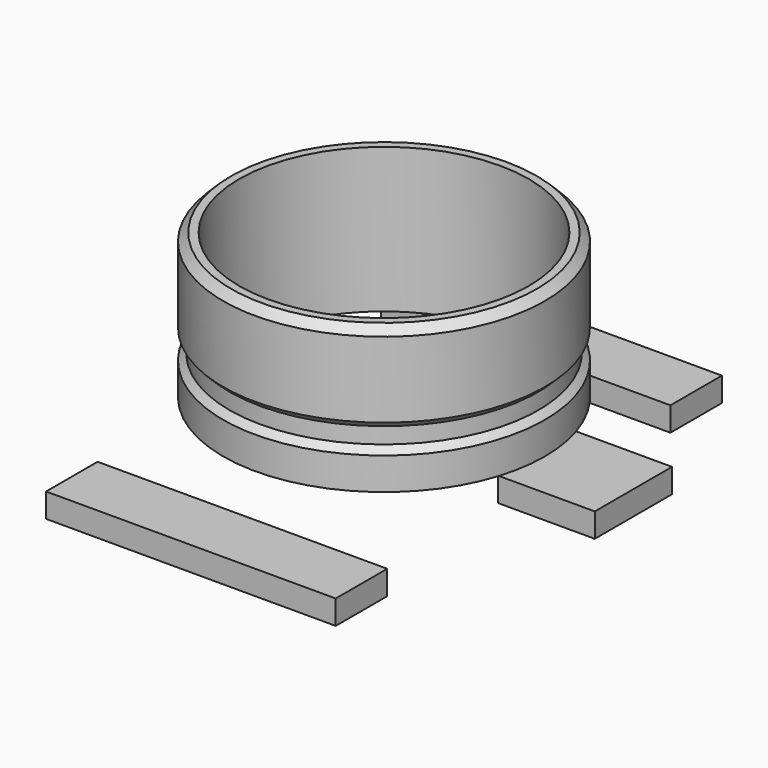
from build123d import *

# Parameters (mm, degrees)
BOX004_W     = 0.6
BOX004_H     = 0.6
BOX004_DEPTH = 0.15
BOX001_W     = 1.8
BOX001_H     = 0.4
BOX001_DEPTH = 0.15
BOX002_W     = 1.8
BOX002_H     = 0.4
BOX002_DEPTH = 0.15


with BuildPart() as body002:
    # Sketch → Revolution (revolve)
    with BuildSketch(Plane.YZ):
        Polygon((0.9, 0.35), (0.9, 1.25), (0.95, 1.25), (1, 1.2), (1, 0.73), (0.96, 0.69), (0.96, 0.59), (1, 0.55), (1, 0.35), align=None)
    revolve(axis=Axis((0, 0, 0), (0, 0, 1)))


with BuildPart() as cube004:
    # Box004 → Box004 (new body)
    with BuildSketch(Plane(origin=(0.95, -0.3, 0.2), x_dir=(1, 0, 0), z_dir=(0, 0, 1))):
        with Locations((0.3, 0.3)):
            Rectangle(BOX004_W, BOX004_H)
    extrude(amount=BOX004_DEPTH)


with BuildPart() as wing:
    # Box001 → Box001 (new body)
    with BuildSketch(Plane(origin=(0.4, -0.2, 0), x_dir=(1, 0, 0), z_dir=(0, 0, 1))):
        with Locations((0.9, 0.2)):
            Rectangle(BOX001_W, BOX001_H)
    extrude(amount=BOX001_DEPTH)


with BuildPart() as gnd001:
    # Box002 → Box002 (new body)
    with BuildSketch(Plane(origin=(0.4, 2.4, 0), x_dir=(1, 0, 0), z_dir=(0, 0, 1))):
        with Locations((0.9, 0.2)):
            Rectangle(BOX002_W, BOX002_H)
    extrude(amount=BOX002_DEPTH)

    # Fusion: union wing
    add(wing.part)


with BuildPart() as gnd001_1:
    # Fusion placement: moved
    add(gnd001.part.moved(Location((-1.3, -1.3, 0))))

    # Fusion002: union Body002, Cube004
    add(body002.part)
    add(cube004.part)


solid = gnd001_1.part
